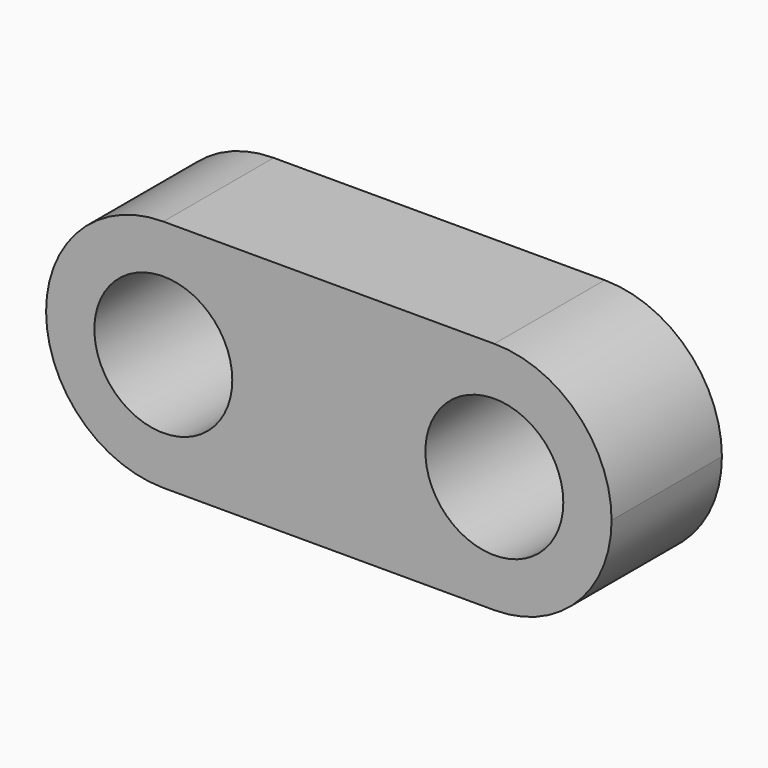
from build123d import *

# Parameters (mm, degrees)
F0_R     = 2.5
F1_DEPTH = 5


with BuildPart() as f1:
    # F0 (on Front) → F1 (new body)
    with BuildSketch(Plane.XZ):
        with BuildLine():
            ThreePointArc((0, -4.25), (3.005204, -3.005204), (4.25, 0))
            ThreePointArc((4.25, 0), (3.005204, 3.005204), (0, 4.25))
            ThreePointArc((0, 4.25), (-4.25, 0), (0, -4.25))
        make_face()
        Circle(F0_R, mode=Mode.SUBTRACT)
        with BuildLine():
            ThreePointArc((16.25, 0), (15.005204, 3.005204), (12, 4.25))
            ThreePointArc((12, 4.25), (7.75, 0), (12, -4.25))
            ThreePointArc((12, -4.25), (15.005204, -3.005204), (16.25, 0))
        make_face()
        with Locations((12, 0)):
            Circle(F0_R, mode=Mode.SUBTRACT)
        with BuildLine():
            ThreePointArc((0, 4.25), (3.005204, 3.005204), (4.25, 0))
            ThreePointArc((4.25, 0), (3.005204, -3.005204), (0, -4.25))
            Line((0, -4.25), (12, -4.25))
            ThreePointArc((12, -4.25), (7.75, 0), (12, 4.25))
            Line((12, 4.25), (0, 4.25))
        make_face()
    extrude(amount=F1_DEPTH)


solid = f1.part
